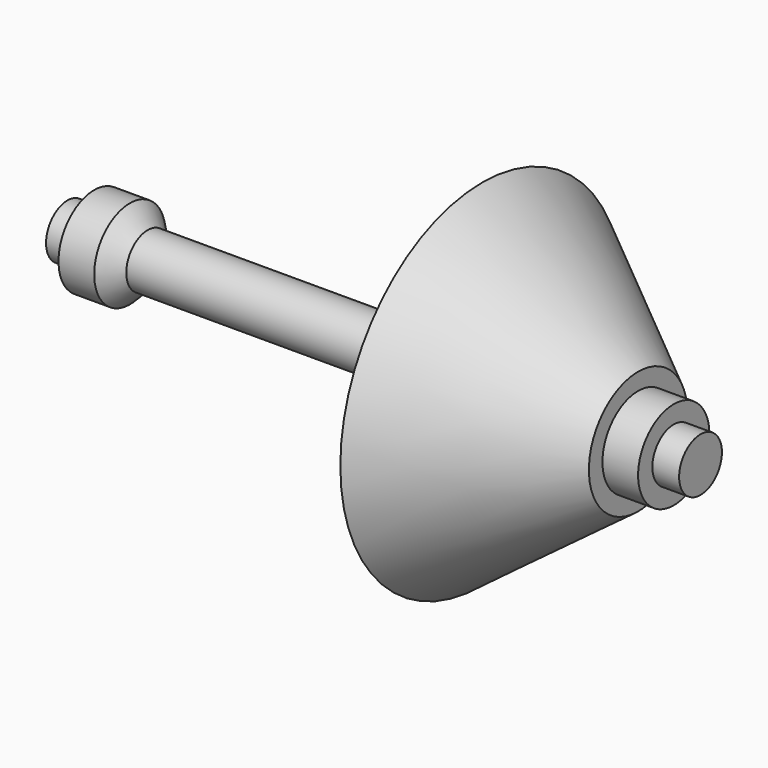
from build123d import *

# Parameters (mm, degrees)
F0_R     = 6
F1_DEPTH = 71
F2_W     = 8
F2_H     = 10


with BuildPart() as f1:
    # F0 (on Right) → F1 (new body, symmetric)
    with BuildSketch(Plane.YZ):
        Circle(F0_R)
    extrude(amount=F1_DEPTH, both=True)

    # F2 (on Top) → F3 (revolve)
    with BuildSketch(Plane.XY):
        Polygon((5.968084, 10), (5.968084, 0), (12.05, 0), (18.018084, 5.968084), (18.018084, 10), align=None)
        Polygon((-57, 0), (-47, 0), (-57, 10), align=None)
        Polygon((18.018084, 5.968084), (12.05, 0), (18.018084, 0), align=None)
        with Locations((-61, 5)):
            Rectangle(F2_W, F2_H)
        Polygon((18.018084, 5.968084), (18.018084, 0), (22.05, 0), (22.05, 10), align=None)
        Polygon((22.05, 10), (22.05, 0), (57, 0), (57, 10), (57, 13.8), (22.05, 39.8), align=None)
        with Locations((61, 5)):
            Rectangle(F2_W, F2_H)
    revolve(axis=Axis((-32.5, 0, 0), (-1, 0, 0)))


solid = f1.part
